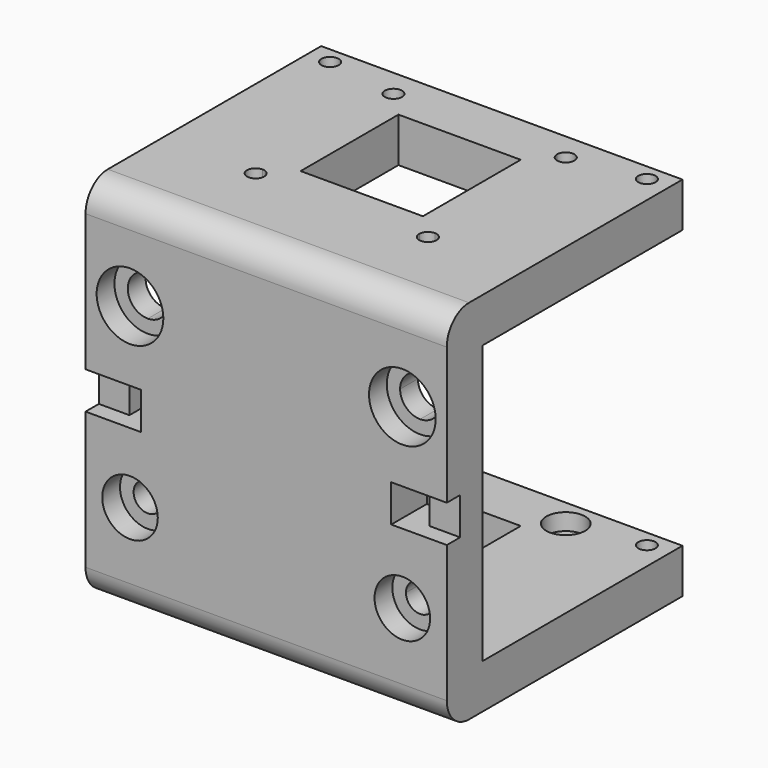
from build123d import *

# Parameters (mm, degrees)
F0_W      = 65
F0_H      = 50
F0_W_2    = 45
F0_H_2    = 6.7
F1_DEPTH  = 8
F2_R      = 6
F2_R_2    = 3.6
F2_R_3    = 5
F2_R_4    = 2.55
F3_DEPTH  = 4
F4_W      = 5.5
F4_H      = 6.7
F5_DEPTH  = 3
F6_DEPTH  = 8
F7_DEPTH  = 8
F8_W      = 65
F8_H      = 8
F9_DEPTH  = 45
F10_W     = 22
F10_H     = 22
F10_R     = 1.55
F11_DEPTH = 100
F12_R     = 3.5
F12_R_2   = 1.55
F13_DEPTH = 3
F14_R     = 3.5
F14_R_2   = 1.55
F15_DEPTH = 3
F16_R     = 5


with BuildPart() as f1:
    # F0 (on Front) → F1 (new body)
    with BuildSketch(Plane.XZ):
        Rectangle(F0_W, F0_H)
        with BuildLine():
            ThreePointArc((-24.5, 12.35), (-27.0455844123, 18.4955844123), (-20.9, 15.95))
            Line((-20.9, 15.95), (20.9, 15.95))
            ThreePointArc((20.9, 15.95), (24.5, 19.55), (28.1, 15.95))
            ThreePointArc((28.1, 15.95), (27.0455844123, 13.4044155877), (24.5, 12.35))
            Line((24.5, 12.35), (24.5, 3.35))
            Line((24.5, 3.35), (27, 3.35))
            Line((27, 3.35), (27, -3.35))
            Line((27, -3.35), (24.5, -3.35))
            Line((24.5, -3.35), (24.5, -13.4))
            ThreePointArc((24.5, -13.4), (26.303122292, -14.146877708), (27.05, -15.95))
            ThreePointArc((27.05, -15.95), (24.5, -18.5), (21.95, -15.95))
            Line((21.95, -15.95), (-21.95, -15.95))
            ThreePointArc((-21.95, -15.95), (-26.303122292, -17.753122292), (-24.5, -13.4))
            Line((-24.5, -13.4), (-24.5, -3.35))
            Line((-24.5, -3.35), (-27, -3.35))
            Line((-27, -3.35), (-27, 3.35))
            Line((-27, 3.35), (-24.5, 3.35))
            Line((-24.5, 3.35), (-24.5, 12.35))
        make_face(mode=Mode.SUBTRACT)
        with BuildLine():
            Line((20.9, 15.95), (-20.9, 15.95))
            ThreePointArc((-20.9, 15.95), (-21.9544155877, 13.4044155877), (-24.5, 12.35))
            Line((-24.5, 12.35), (-24.5, 3.35))
            Line((-24.5, 3.35), (-22.5, 3.35))
            Line((-22.5, 3.35), (22.5, 3.35))
            Line((22.5, 3.35), (24.5, 3.35))
            Line((24.5, 3.35), (24.5, 12.35))
            ThreePointArc((24.5, 12.35), (21.9544155877, 13.4044155877), (20.9, 15.95))
        make_face()
        with BuildLine():
            Line((-22.5, -3.35), (-24.5, -3.35))
            Line((-24.5, -3.35), (-24.5, -13.4))
            ThreePointArc((-24.5, -13.4), (-22.696877708, -14.146877708), (-21.95, -15.95))
            Line((-21.95, -15.95), (21.95, -15.95))
            ThreePointArc((21.95, -15.95), (22.696877708, -14.146877708), (24.5, -13.4))
            Line((24.5, -13.4), (24.5, -3.35))
            Line((24.5, -3.35), (22.5, -3.35))
            Line((22.5, -3.35), (-22.5, -3.35))
        make_face()
        Rectangle(F0_W_2, F0_H_2)
        Rectangle(F0_W_2, F0_H_2)
    extrude(amount=F1_DEPTH)

    # F2 (on face) → F3 (cut)
    with BuildSketch(Plane.XZ.offset(8)):
        with Locations((24.5, 15.95)):
            Circle(F2_R)
        with Locations((24.5, 15.95)):
            Circle(F2_R_2, mode=Mode.SUBTRACT)
        with Locations((-24.5, 15.95)):
            Circle(F2_R)
        with Locations((-24.5, 15.95)):
            Circle(F2_R_2, mode=Mode.SUBTRACT)
        with Locations((-24.5, -15.95)):
            Circle(F2_R_3)
        with Locations((-24.5, -15.95)):
            Circle(F2_R_4, mode=Mode.SUBTRACT)
        with Locations((24.5, -15.95)):
            Circle(F2_R_3)
        with Locations((24.5, -15.95)):
            Circle(F2_R_4, mode=Mode.SUBTRACT)
    extrude(amount=-F3_DEPTH, mode=Mode.SUBTRACT)

    # F4 (on face) → F5 (cut)
    with BuildSketch(Plane.XZ.offset(8)):
        with Locations((29.75, 0)):
            Rectangle(F4_W, F4_H)
        with Locations((-29.75, 0)):
            Rectangle(F4_W, F4_H)
    extrude(amount=-F5_DEPTH, mode=Mode.SUBTRACT)

    # F6 (add): a face of the model
    f6_faces = [f1.faces().sort_by_distance(p)[0] for p in [
        (0, -4, -25),
    ]]
    extrude(f6_faces, amount=F6_DEPTH)

    # F7 (add): a face of the model
    f7_faces = [f1.faces().sort_by_distance(p)[0] for p in [
        (0, -4, 25),
    ]]
    extrude(f7_faces, amount=F7_DEPTH)

    # F8 (on face) → F9 (join)
    with BuildSketch(Plane(origin=(0, 0, 0), x_dir=(-1, 0, 0), z_dir=(0, 1, 0))):
        with Locations((0, 29)):
            Rectangle(F8_W, F8_H)
        with Locations((0, -29)):
            Rectangle(F8_W, F8_H)
    extrude(amount=F9_DEPTH)

    # F10 (on face) → F11 (cut)
    with BuildSketch(Plane.XY.offset(33)):
        with BuildLine():
            Line((15.5, 9), (13.95, 9))
            ThreePointArc((13.95, 9), (15.5, 7.45), (17.05, 9))
            ThreePointArc((17.05, 9), (16.5960155108, 10.0960155108), (15.5, 10.55))
            Line((15.5, 10.55), (15.5, 9))
        make_face()
        with BuildLine():
            ThreePointArc((15.5, 10.55), (14.4039844892, 10.0960155108), (13.95, 9))
            Line((13.95, 9), (15.5, 9))
            Line((15.5, 9), (15.5, 10.55))
        make_face()
        with BuildLine():
            ThreePointArc((-15.5, 10.55), (-16.5960155108, 7.9039844892), (-13.95, 9))
            Line((-13.95, 9), (-15.5, 9))
            Line((-15.5, 9), (-15.5, 10.55))
        make_face()
        with BuildLine():
            Line((-15.5, 9), (-13.95, 9))
            ThreePointArc((-13.95, 9), (-14.4039844892, 10.0960155108), (-15.5, 10.55))
            Line((-15.5, 10.55), (-15.5, 9))
        make_face()
        with BuildLine():
            Line((15.5, 40), (15.5, 38.45))
            ThreePointArc((15.5, 38.45), (16.5960155108, 38.9039844892), (17.05, 40))
            ThreePointArc((17.05, 40), (15.5, 41.55), (13.95, 40))
            Line((13.95, 40), (15.5, 40))
        make_face()
        with BuildLine():
            ThreePointArc((13.95, 40), (14.4039844892, 38.9039844892), (15.5, 38.45))
            Line((15.5, 38.45), (15.5, 40))
            Line((15.5, 40), (13.95, 40))
        make_face()
        with BuildLine():
            ThreePointArc((-13.95, 40), (-16.5960155108, 41.0960155108), (-15.5, 38.45))
            Line((-15.5, 38.45), (-15.5, 40))
            Line((-15.5, 40), (-13.95, 40))
        make_face()
        with BuildLine():
            Line((-15.5, 40), (-15.5, 38.45))
            ThreePointArc((-15.5, 38.45), (-14.4039844892, 38.9039844892), (-13.95, 40))
            Line((-13.95, 40), (-15.5, 40))
        make_face()
        with Locations((0, 24.5)):
            Rectangle(F10_W, F10_H)
        with Locations((28.5, 42)):
            Circle(F10_R)
        with BuildLine():
            ThreePointArc((-26.95, 42), (-28.5, 43.55), (-30.05, 42))
            ThreePointArc((-30.05, 42), (-28.5, 40.45), (-26.95, 42))
        make_face()
    extrude(amount=-F11_DEPTH, mode=Mode.SUBTRACT)

    # F12 (on face) → F13 (cut)
    with BuildSketch(Plane(origin=(0, 0, 25), x_dir=(1, 0, 0), z_dir=(0, 0, -1))):
        with Locations((-15.5, -40)):
            Circle(F12_R)
        with Locations((-15.5, -40)):
            Circle(F12_R_2, mode=Mode.SUBTRACT)
        with Locations((-15.5, -9)):
            Circle(F12_R)
        with Locations((-15.5, -9)):
            Circle(F12_R_2, mode=Mode.SUBTRACT)
        with Locations((15.5, -9)):
            Circle(F12_R)
        with Locations((15.5, -9)):
            Circle(F12_R_2, mode=Mode.SUBTRACT)
        with Locations((15.5, -40)):
            Circle(F12_R)
        with Locations((15.5, -40)):
            Circle(F12_R_2, mode=Mode.SUBTRACT)
    extrude(amount=-F13_DEPTH, mode=Mode.SUBTRACT)

    # F14 (on face) → F15 (cut)
    with BuildSketch(Plane.XY.offset(-25)):
        with Locations((15.5, 9)):
            Circle(F14_R)
        with Locations((15.5, 9)):
            Circle(F14_R_2, mode=Mode.SUBTRACT)
        with Locations((15.5, 40)):
            Circle(F14_R)
        with Locations((15.5, 40)):
            Circle(F14_R_2, mode=Mode.SUBTRACT)
        with Locations((-15.5, 40)):
            Circle(F14_R)
        with Locations((-15.5, 40)):
            Circle(F14_R_2, mode=Mode.SUBTRACT)
        with Locations((-15.5, 9)):
            Circle(F14_R)
        with Locations((-15.5, 9)):
            Circle(F14_R_2, mode=Mode.SUBTRACT)
    extrude(amount=-F15_DEPTH, mode=Mode.SUBTRACT)

    # F16
    f16_edges = [f1.edges().sort_by_distance(p)[0] for p in [
        (0, -8, -33),
        (0, -8, 33),
    ]]
    fillet(f16_edges, radius=F16_R)


solid = f1.part
